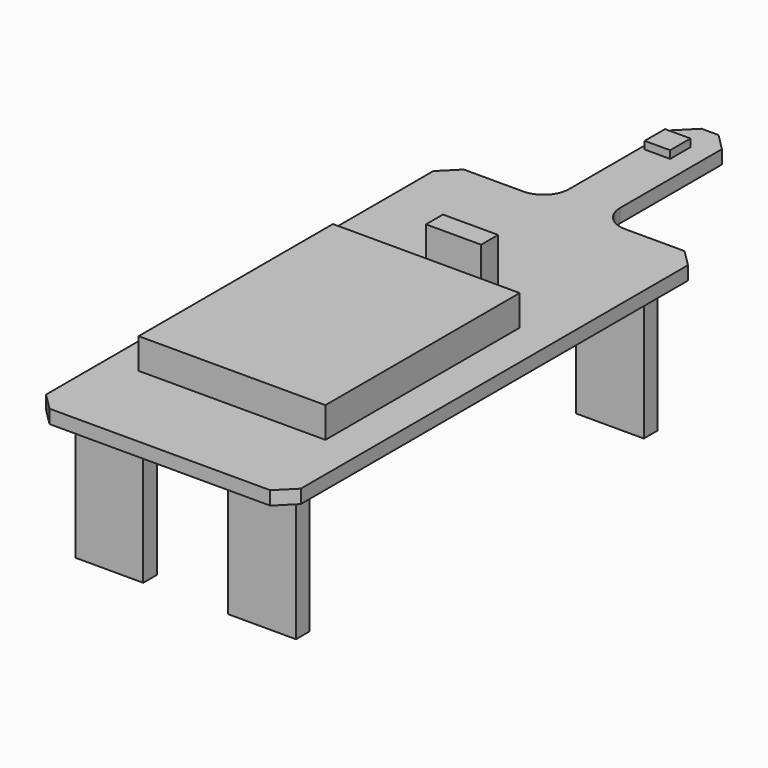
from build123d import *

# Parameters (mm, degrees)
F1_DEPTH = 1.6
F2_W     = 22
F2_H     = 28.6
F3_DEPTH = 3.6
F2_W_2   = 6.5
F2_H_2   = 2.5
F4_DEPTH = 7
F2_W_3   = 3
F2_H_3   = 3
F5_DEPTH = 0.9
F6_W     = 8
F6_H     = 2
F7_DEPTH = 15.4
F8_R     = 3
F9_SIZE  = 2


with BuildPart() as f1:
    # F0 (on Top) → F1 (new body)
    with BuildSketch(Plane.XY):
        Polygon((-3, 30.5), (-15, 30.5), (-15, -30.5), (15, -30.5), (15, 30.5), (3, 30.5), (3, 50.5), (-3, 50.5), align=None)
    extrude(amount=F1_DEPTH)

    # F2 (on face) → F3 (join)
    with BuildSketch(Plane.XY.offset(1.6)):
        with Locations((-0.3, -5.2)):
            Rectangle(F2_W, F2_H)
    extrude(amount=F3_DEPTH)

    # F2 (on face) → F4 (join)
    with BuildSketch(Plane.XY.offset(1.6)):
        with Locations((2.75, 10.55)):
            Rectangle(F2_W_2, F2_H_2)
    extrude(amount=F4_DEPTH)

    # F2 (on face) → F5 (join)
    with BuildSketch(Plane.XY.offset(1.6)):
        with Locations((-1, 45.5)):
            Rectangle(F2_W_3, F2_H_3)
    extrude(amount=F5_DEPTH)

    # F6 (on face) → F7 (join)
    with BuildSketch(Plane(origin=(0, 0, 0), x_dir=(1, 0, 0), z_dir=(0, 0, -1))):
        with Locations((-9, 25.7)):
            Rectangle(F6_W, F6_H)
        with Locations((9, 25.7)):
            Rectangle(F6_W, F6_H)
        with Locations((-9, -25.5)):
            Rectangle(F6_W, F6_H)
        with Locations((9, -25.5)):
            Rectangle(F6_W, F6_H)
    extrude(amount=F7_DEPTH)

    # F8
    f8_edges = [f1.edges().sort_by_distance(p)[0] for p in [
        (-3, 30.5, 0.8),
        (3, 30.5, 0.8),
    ]]
    fillet(f8_edges, radius=F8_R)

    # F9
    f9_edges = [f1.edges().sort_by_distance(p)[0] for p in [
        (-15, 30.5, 0.8),
        (-15, -30.5, 0.8),
        (15, -30.5, 0.8),
        (15, 30.5, 0.8),
        (3, 50.5, 0.8),
        (-3, 50.5, 0.8),
    ]]
    chamfer(f9_edges, length=F9_SIZE)


solid = f1.part
